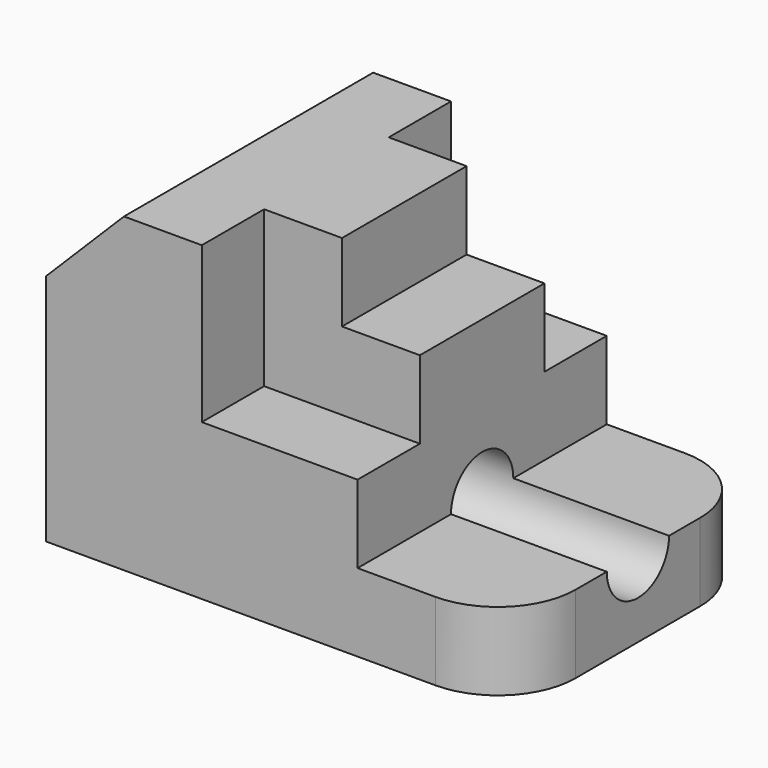
from build123d import *

# Parameters (mm, degrees)
F1_DEPTH = 25.4
F2_DEPTH = 12.7
F3_R     = 12.7
F5_DEPTH = 76.201


with BuildPart() as f1:
    # F0 (on Front) → F1 (new body, symmetric)
    with BuildSketch(Plane.XZ):
        Polygon((0, 38.1), (0, 0), (76.2, 0), (76.2, 12.7), (50.8, 12.7), (50.8, 25.4), (25.4, 25.4), (25.4, 50.8), (12.7, 50.8), align=None)
    extrude(amount=F1_DEPTH, both=True)

    # F0 (on Front) → F2 (join, symmetric)
    with BuildSketch(Plane.XZ):
        Polygon((38.1, 50.8), (25.4, 50.8), (25.4, 25.4), (50.8, 25.4), (50.8, 38.1), (38.1, 38.1), align=None)
    extrude(amount=F2_DEPTH, both=True)

    # F3
    f3_edges = [f1.edges().sort_by_distance(p)[0] for p in [
        (76.2, -25.4, 6.35),
        (76.2, 25.4, 6.35),
    ]]
    fillet(f3_edges, radius=F3_R)

    # F4 (on face) → F5 (cut, through all)
    with BuildSketch(Plane.YZ.offset(76.2)):
        with BuildLine():
            ThreePointArc((-6.35, 12.7), (0, 6.35), (6.35, 12.7))
            Line((6.35, 12.7), (-6.35, 12.7))
        make_face()
        with BuildLine():
            Line((-6.35, 12.7), (6.35, 12.7))
            ThreePointArc((6.35, 12.7), (0, 19.05), (-6.35, 12.7))
        make_face()
    extrude(amount=-F5_DEPTH, mode=Mode.SUBTRACT)


solid = f1.part
